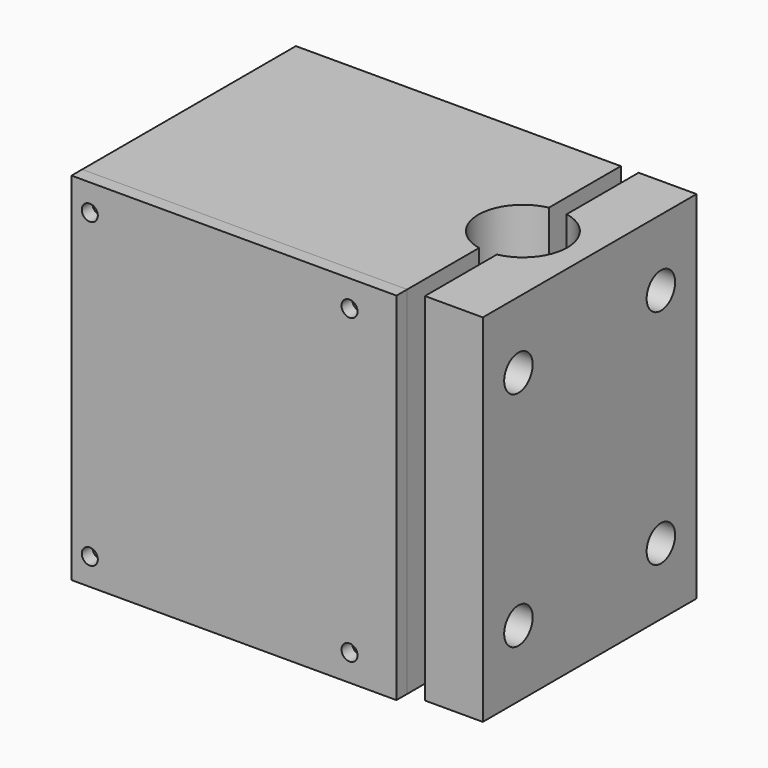
from build123d import *

# Parameters (mm, degrees)
F1_DEPTH  = 80
F0_W      = 60
F0_H      = 60
F2_DEPTH  = 80
F3_T      = -2.5
F4_W      = 60
F4_H      = 80
F5_DEPTH  = 8
F7_R      = 2.75
F8_DEPTH  = 35
F7_R_2    = 4
F9_DEPTH  = 15
F10_R     = 7
F11_DEPTH = 25
F12_W     = 73
F12_H     = 80
F12_R     = 1.8
F12_W_2   = 49.5
F12_H_2   = 75
F13_DEPTH = 3
F12_R_2   = 1.3
F14_DEPTH = 15


with BuildPart() as f1:
    # F0 (on Top) → F1 (new body)
    with BuildSketch(Plane.XY):
        with BuildLine():
            ThreePointArc((17, 9.7979589711), (22.7459666924, 6.3245553203), (25, 0))
            ThreePointArc((25, 0), (22.7459666924, -6.3245553203), (17, -9.7979589711))
            Line((17, -9.7979589711), (17, -30))
            Line((17, -30), (30, -30))
            Line((30, -30), (30, 30))
            Line((30, 30), (17, 30))
            Line((17, 30), (17, 9.7979589711))
        make_face()
    extrude(amount=F1_DEPTH)


with BuildPart() as f1b:
    # F0 (on Top) → F1, piece 2 (new body)
    with BuildSketch(Plane.XY):
        with BuildLine():
            ThreePointArc((13, -9.7979589711), (5, 0), (13, 9.7979589711))
            Line((13, 9.7979589711), (13, 30))
            Line((13, 30), (0, 30))
            Line((0, 30), (0, -30))
            Line((0, -30), (13, -30))
            Line((13, -30), (13, -9.7979589711))
        make_face()
    extrude(amount=F1_DEPTH)


with BuildPart() as f2:
    # F0 (on Top) → F2 (new body)
    with BuildSketch(Plane.XY):
        with Locations((-30, 0)):
            Rectangle(F0_W, F0_H)
    extrude(amount=F2_DEPTH)

    # F3
    f3_openings = [f2.faces().sort_by_distance(p)[0] for p in [
        (-30, -30, 40),
    ]]
    offset(amount=F3_T, openings=f3_openings)

    # F4 (on face) → F5 (join)
    with BuildSketch(Plane(origin=(-60, 0, 0), x_dir=(0, -1, 0), z_dir=(-1, 0, 0))):
        with Locations((0, 40)):
            Rectangle(F4_W, F4_H)
    extrude(amount=-F5_DEPTH)

    # F6: union F1b
    add(f1b.part)


with BuildPart() as f8_tool:
    # F7 (on face) → F8 (new body)
    with BuildSketch(Plane.YZ.offset(30)):
        with Locations((-20, 65)):
            Circle(F7_R)
        with Locations((20, 65)):
            Circle(F7_R)
        with Locations((20, 15)):
            Circle(F7_R)
        with Locations((-20, 15)):
            Circle(F7_R)
    extrude(amount=-F8_DEPTH)


with BuildPart() as f1_1:
    add(f1.part)

    # F8: cut by f8_tool
    add(f8_tool.part, mode=Mode.SUBTRACT)

    # F7 (on face) → F9 (cut)
    with BuildSketch(Plane.YZ.offset(30)):
        with Locations((-20, 65)):
            Circle(F7_R_2)
        with Locations((-20, 65)):
            Circle(F7_R, mode=Mode.SUBTRACT)
        with Locations((20, 65)):
            Circle(F7_R_2)
        with Locations((20, 65)):
            Circle(F7_R, mode=Mode.SUBTRACT)
        with Locations((20, 15)):
            Circle(F7_R_2)
        with Locations((20, 15)):
            Circle(F7_R, mode=Mode.SUBTRACT)
        with Locations((-20, 15)):
            Circle(F7_R_2)
        with Locations((-20, 15)):
            Circle(F7_R, mode=Mode.SUBTRACT)
    extrude(amount=-F9_DEPTH, mode=Mode.SUBTRACT)


with BuildPart() as f2_1:
    add(f2.part)

    # F8: cut by f8_tool
    add(f8_tool.part, mode=Mode.SUBTRACT)

    # F10 (on face) → F11 (cut)
    with BuildSketch(Plane.XY):
        with Locations((-10, 0)):
            Circle(F10_R)
    extrude(amount=F11_DEPTH, mode=Mode.SUBTRACT)

    # F12 (on face) → F14 (cut)
    with BuildSketch(Plane.XZ.offset(30)):
        with Locations((-55.894702673, 74)):
            Circle(F12_R_2)
        with Locations((2.4590059184, 74)):
            Circle(F12_R_2)
        with Locations((-55.894702673, 6)):
            Circle(F12_R_2)
        with Locations((2.4590059184, 6)):
            Circle(F12_R_2)
    extrude(amount=-F14_DEPTH, mode=Mode.SUBTRACT)


with BuildPart() as f13:
    # F12 (on face) → F13 (new body)
    with BuildSketch(Plane.XZ.offset(30)):
        with Locations((-23.5, 40)):
            Rectangle(F12_W, F12_H)
        with Locations((-55.894702673, 6)):
            Circle(F12_R, mode=Mode.SUBTRACT)
        with Locations((2.4590059184, 6)):
            Circle(F12_R, mode=Mode.SUBTRACT)
        with Locations((-27.25, 40)):
            Rectangle(F12_W_2, F12_H_2, mode=Mode.SUBTRACT)
        with Locations((-55.894702673, 74)):
            Circle(F12_R, mode=Mode.SUBTRACT)
        with Locations((2.4590059184, 74)):
            Circle(F12_R, mode=Mode.SUBTRACT)
        with Locations((-27.25, 40)):
            Rectangle(F12_W_2, F12_H_2)
    extrude(amount=F13_DEPTH)


solid = Compound([f1_1.part, f2_1.part, f13.part])
